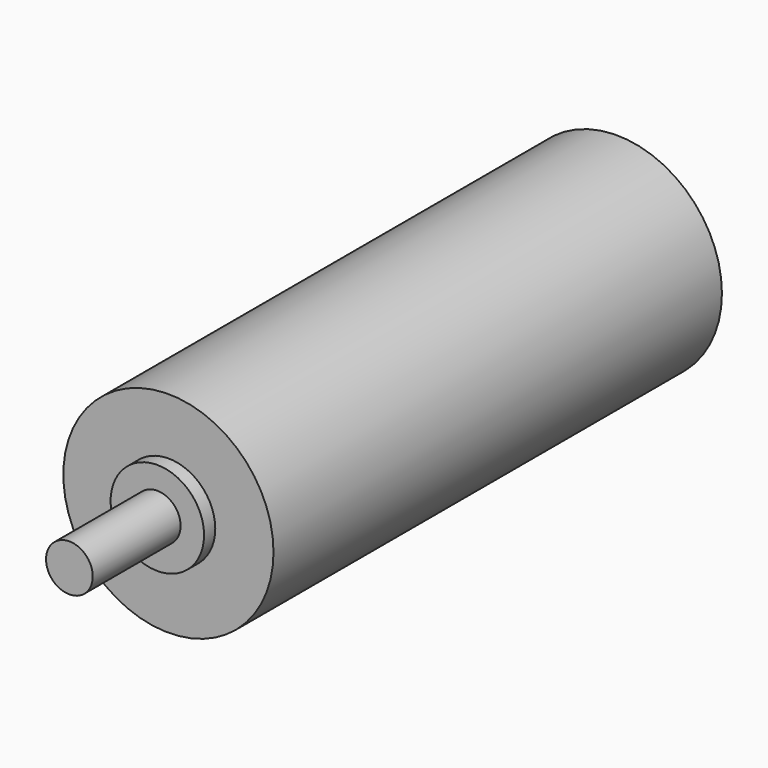
from build123d import *

# Parameters (mm, degrees)
SKETCH003_R  = 22.5
PAD003_DEPTH = 120
SKETCH_R     = 5
PAD_DEPTH    = 23.5
SKETCH004_R  = 10
PAD004_DEPTH = 3


with BuildPart() as gear_motor:
    # Sketch003 → Pad003 (new body)
    with BuildSketch(Plane(origin=(-7, 2, -25.5), x_dir=(1, 0, 0), z_dir=(0, -1, 0))):
        with Locations((-68, 20)):
            Circle(SKETCH003_R)
    extrude(amount=-PAD003_DEPTH)


with BuildPart() as body:
    # Sketch → Pad (new body)
    with BuildSketch(Plane.XZ.offset(1)):
        with Locations((-75, -5)):
            Circle(SKETCH_R)
    extrude(amount=PAD_DEPTH)

    # Sketch004 → Pad004 (join)
    with BuildSketch(Plane.XZ.offset(-2)):
        with Locations((-74.970276, -5.133937)):
            Circle(SKETCH004_R)
    extrude(amount=PAD004_DEPTH)


solid = Compound([gear_motor.part, body.part])
